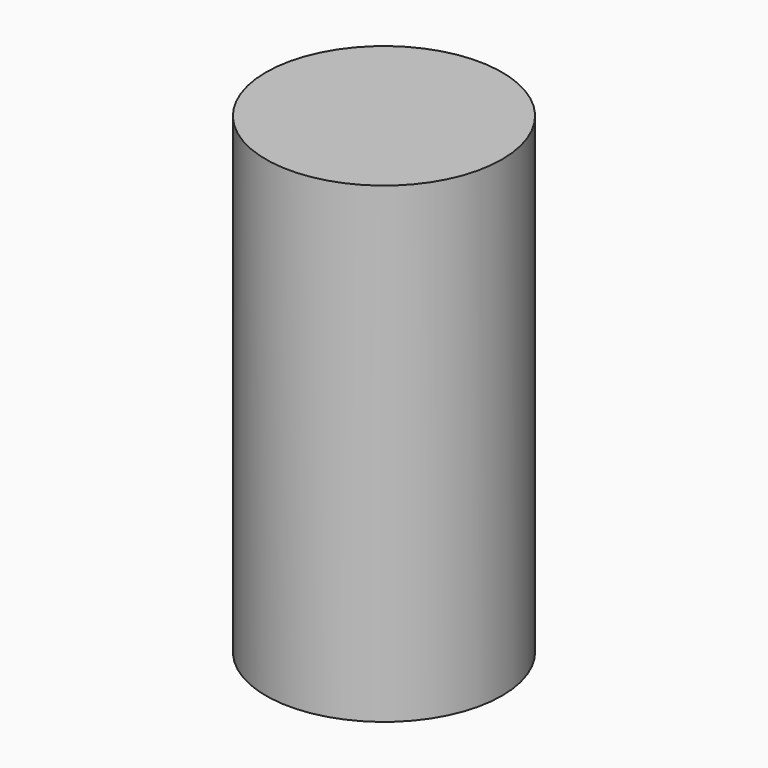
from build123d import *

# Parameters (mm, degrees)
SKETCH_R  = 2.5
PAD_DEPTH = 10


with BuildPart() as part:
    # Sketch → Pad (new body)
    with BuildSketch(Plane.XY):
        Circle(SKETCH_R)
    extrude(amount=PAD_DEPTH)


solid = part.part
